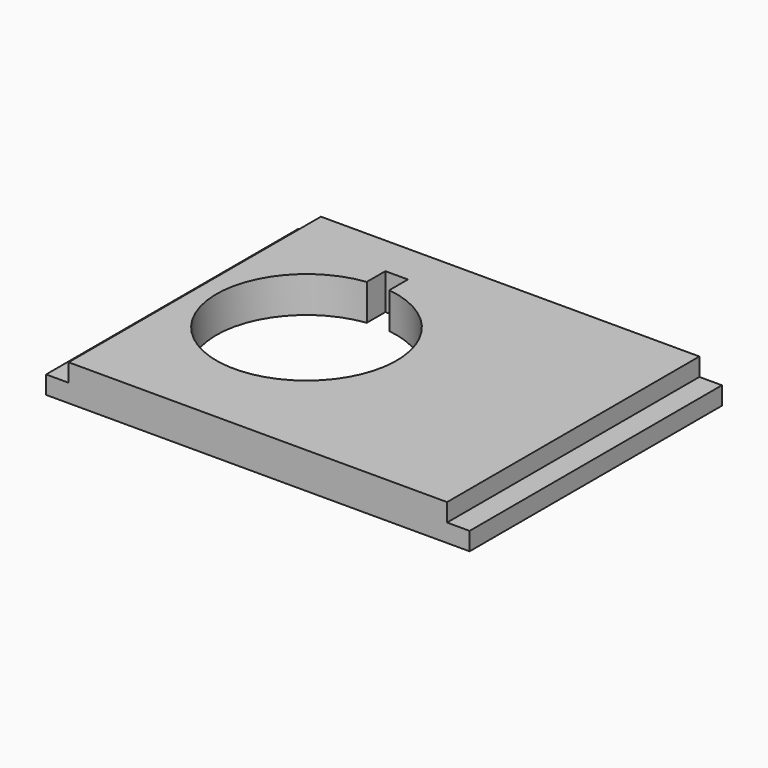
from build123d import *

# Parameters (mm, degrees)
SKETCH_W     = 42
SKETCH_H     = 35
SKETCH_R     = 10
PAD_DEPTH    = 4
SKETCH001_W  = 2.5
SKETCH001_H  = 6
POCKET_DEPTH = 5
SKETCH002_W  = 35
SKETCH002_H  = 2
PAD001_DEPTH = 2.5
SKETCH003_W  = 35
SKETCH003_H  = 2
PAD002_DEPTH = 2.5


with BuildPart() as part:
    # Sketch → Pad (new body)
    with BuildSketch(Plane.XY):
        with Locations((21, 17.5)):
            Rectangle(SKETCH_W, SKETCH_H)
        with Locations((12, 18)):
            Circle(SKETCH_R, mode=Mode.SUBTRACT)
    extrude(amount=PAD_DEPTH)

    # Sketch001 (on Face7 of Pad) → Pocket (cut)
    with BuildSketch(Plane.XY.offset(4)):
        with Locations((12, 27.5)):
            Rectangle(SKETCH001_W, SKETCH001_H)
    extrude(amount=-POCKET_DEPTH, mode=Mode.SUBTRACT)

    # Sketch002 (on Face3 of Pocket) → Pad001 (join)
    with BuildSketch(Plane.YZ.offset(42)):
        with Locations((17.5, 1)):
            Rectangle(SKETCH002_W, SKETCH002_H)
    extrude(amount=PAD001_DEPTH)

    # Sketch003 (on Face2 of Pad001) → Pad002 (join)
    with BuildSketch(Plane(origin=(0, 0, 0), x_dir=(0, -1, 0), z_dir=(-1, 0, 0))):
        with Locations((-17.5, 1)):
            Rectangle(SKETCH003_W, SKETCH003_H)
    extrude(amount=PAD002_DEPTH)


solid = part.part
